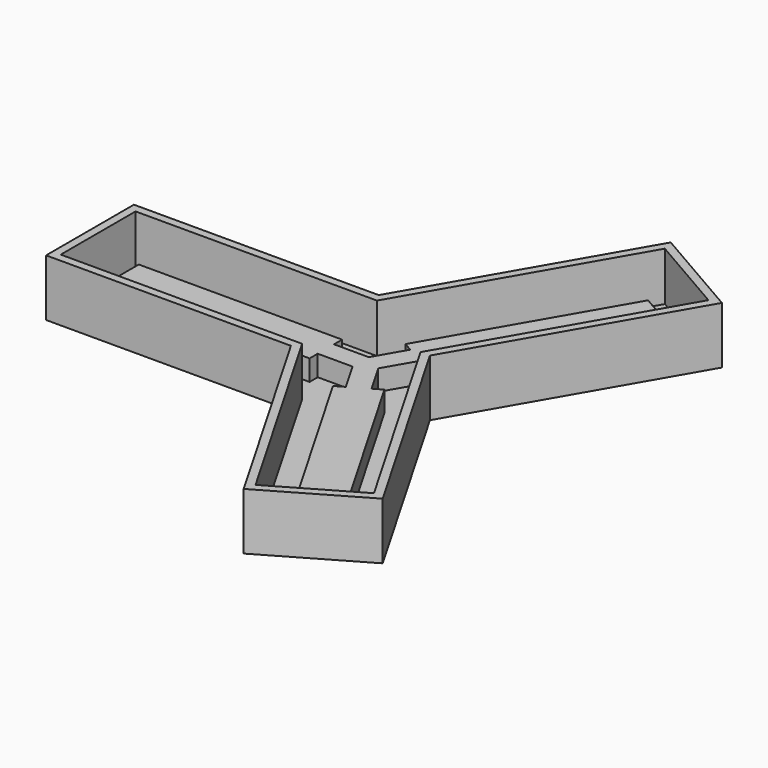
from build123d import *

# Parameters (mm, degrees)
PAD_DEPTH    = 2
PAD001_DEPTH = 7
PAD002_DEPTH = 14
ARRAY_COUNT  = 3


with BuildPart() as pad:
    # Sketch → Pad (new body)
    with BuildSketch(Plane.XY):
        Polygon((0, 0), (-7.7942286341, 13.5), (-68, 13.5), (-68, -13.5), (-7.7942286341, -13.5), align=None)
    extrude(amount=PAD_DEPTH)


with BuildPart() as pad001:
    # Sketch001 → Pad001 (new body)
    with BuildSketch(Plane.XY.offset(0.1)):
        Polygon((0, 0), (-1.443375673, 2.5), (-10, 2.5), (-10, 5), (-60, 5), (-60, -5), (-10, -5), (-10, -2.5), (-1.443375673, -2.5), align=None)
    extrude(amount=PAD001_DEPTH)


with BuildPart() as array:
    # Sketch002 → Pad002 (new body)
    with BuildSketch(Plane.XY):
        Polygon((-6.6395280957, 11.5), (-7.7942286341, 13.5), (-68, 13.5), (-68, -13.5), (-7.7942286341, -13.5), (-6.6395280957, -11.5), (-66, -11.5), (-66, 11.5), align=None)
    extrude(amount=PAD002_DEPTH)

    # Fusion: union Pad, Pad001
    add(pad.part)
    add(pad001.part)

    # Array: Array ×3 about axis
    array_axis = Axis((0, 0, 0), (0, 0, 1))


with BuildPart() as array_1:
    add(array.part)
    for i in range(1, ARRAY_COUNT):
        add(array.part.rotate(array_axis, i * 360 / ARRAY_COUNT))


solid = array_1.part
